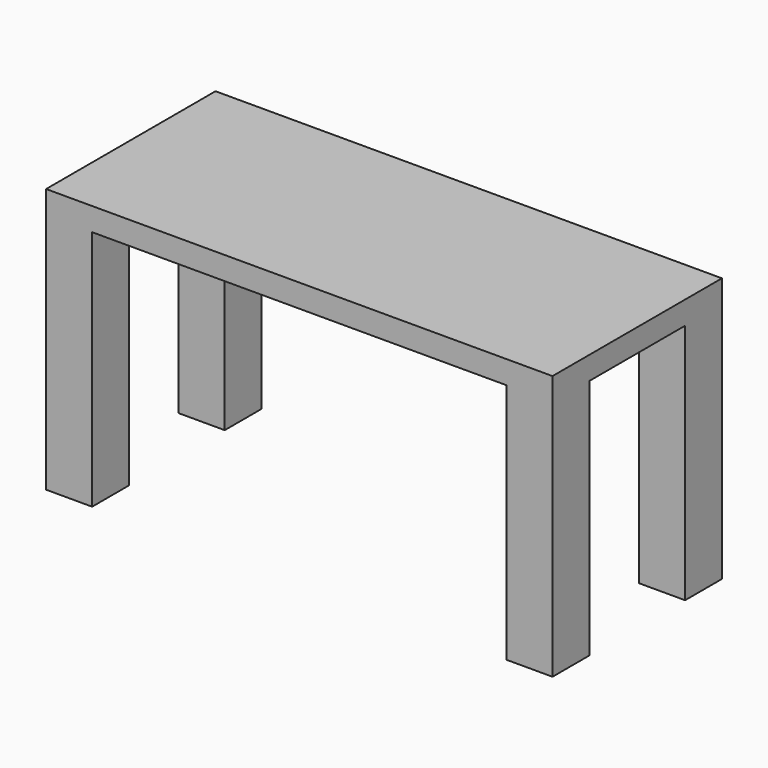
from build123d import *

# Parameters (mm, degrees)
F0_W     = 90
F0_H     = 10
F0_W_2   = 10
F0_H_2   = 26
F1_DEPTH = 5
F2_DEPTH = 5
F3_DEPTH = 57.5


with BuildPart() as f1:
    # F0 (on Top) → F1 (new body)
    with BuildSketch(Plane.XY):
        with Locations((0, 18)):
            Rectangle(F0_W, F0_H)
        with Locations((-50, 0)):
            Rectangle(F0_W_2, F0_H_2)
        with Locations((-50, 18)):
            Rectangle(F0_W_2, F0_H)
        with Locations((50, 0)):
            Rectangle(F0_W_2, F0_H_2)
        with Locations((50, 18)):
            Rectangle(F0_W_2, F0_H)
        with Locations((-50, -18)):
            Rectangle(F0_W_2, F0_H)
        with Locations((0, -18)):
            Rectangle(F0_W, F0_H)
        with Locations((50, -18)):
            Rectangle(F0_W_2, F0_H)
    extrude(amount=-F1_DEPTH)

    # F0 (on Top) → F2 (join)
    with BuildSketch(Plane.XY):
        Rectangle(F0_W, F0_H_2)
    extrude(amount=-F2_DEPTH)

    # F0 (on Top) → F3 (join)
    with BuildSketch(Plane.XY):
        with Locations((-50, 18)):
            Rectangle(F0_W_2, F0_H)
        with Locations((50, 18)):
            Rectangle(F0_W_2, F0_H)
        with Locations((50, -18)):
            Rectangle(F0_W_2, F0_H)
        with Locations((-50, -18)):
            Rectangle(F0_W_2, F0_H)
    extrude(amount=-F3_DEPTH)


solid = f1.part
